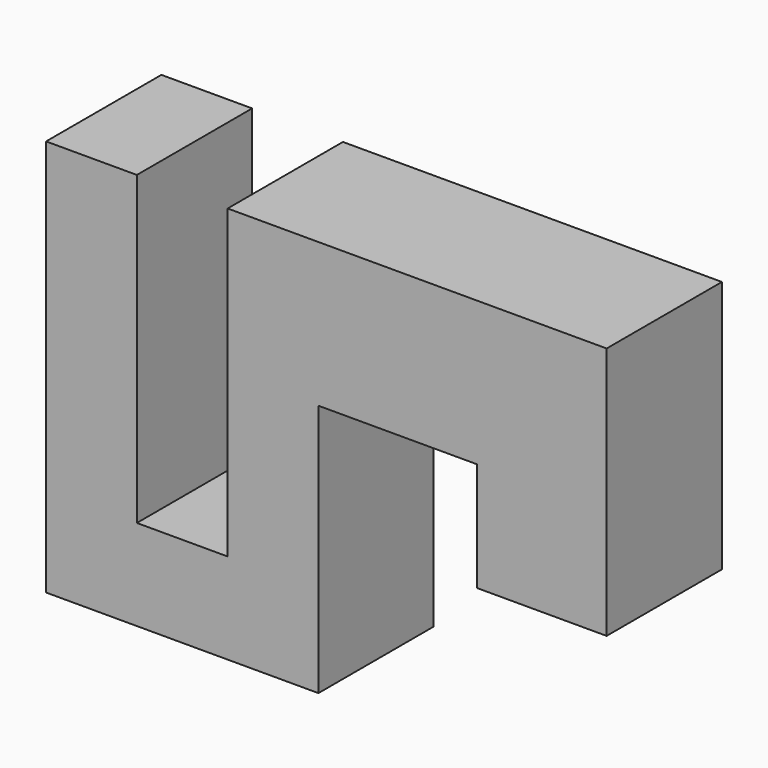
from build123d import *

# Parameters (mm, degrees)
F0_W     = 10.16
F0_H     = 5.08
F0_W_2   = 3.2
F0_H_2   = 3.2
F1_DEPTH = 5.08
F2_W     = 4.572
F2_H     = 5.08
F3_DEPTH = 3.84


with BuildPart() as f1:
    # F0 (on Front) → F1 (new body)
    with BuildSketch(Plane.XZ):
        with Locations((14.68, 11.46)):
            Rectangle(F0_W, F0_H)
        with BuildLine():
            ThreePointArc((0, 1.27), (0.371974, 0.371974), (1.27, 0))
            Line((1.27, 0), (3.2, 0))
            Line((3.2, 0), (3.2, 3.2))
            Line((3.2, 3.2), (3.2, 10.8))
            Line((3.2, 10.8), (0, 10.8))
            Line((0, 10.8), (0, 1.27))
        make_face()
        with Locations((4.8, 1.6)):
            Rectangle(F0_W_2, F0_H_2)
        with BuildLine():
            Line((6.4, 3.2), (6.4, 0))
            Line((6.4, 0), (8.33, 0))
            ThreePointArc((8.33, 0), (9.228026, 0.371974), (9.6, 1.27))
            Line((9.6, 1.27), (9.6, 8.92))
            Line((9.6, 8.92), (9.6, 14))
            Line((9.6, 14), (6.4, 14))
            Line((6.4, 14), (6.4, 3.2))
        make_face()
        with BuildLine():
            Line((0, 0), (1.27, 0))
            ThreePointArc((1.27, 0), (0.371974, 0.371974), (0, 1.27))
            Line((0, 1.27), (0, 0))
        make_face()
        with BuildLine():
            ThreePointArc((9.6, 1.27), (9.228026, 0.371974), (8.33, 0))
            Line((8.33, 0), (9.6, 0))
            Line((9.6, 0), (9.6, 1.27))
        make_face()
        with BuildLine():
            Line((0, 12.73), (0, 10.8))
            Line((0, 10.8), (3.2, 10.8))
            Line((3.2, 10.8), (3.2, 14))
            Line((3.2, 14), (1.27, 14))
            ThreePointArc((1.27, 14), (0.371974, 13.628026), (0, 12.73))
        make_face()
        with BuildLine():
            Line((0, 14), (0, 12.73))
            ThreePointArc((0, 12.73), (0.371974, 13.628026), (1.27, 14))
            Line((1.27, 14), (0, 14))
        make_face()
    extrude(amount=F1_DEPTH)

    # F2 (on face) → F3 (join)
    with BuildSketch(Plane(origin=(0, 0, 8.92), x_dir=(1, 0, 0), z_dir=(0, 0, -1))):
        with Locations((17.474, 2.54)):
            Rectangle(F2_W, F2_H)
    extrude(amount=F3_DEPTH)


solid = f1.part
